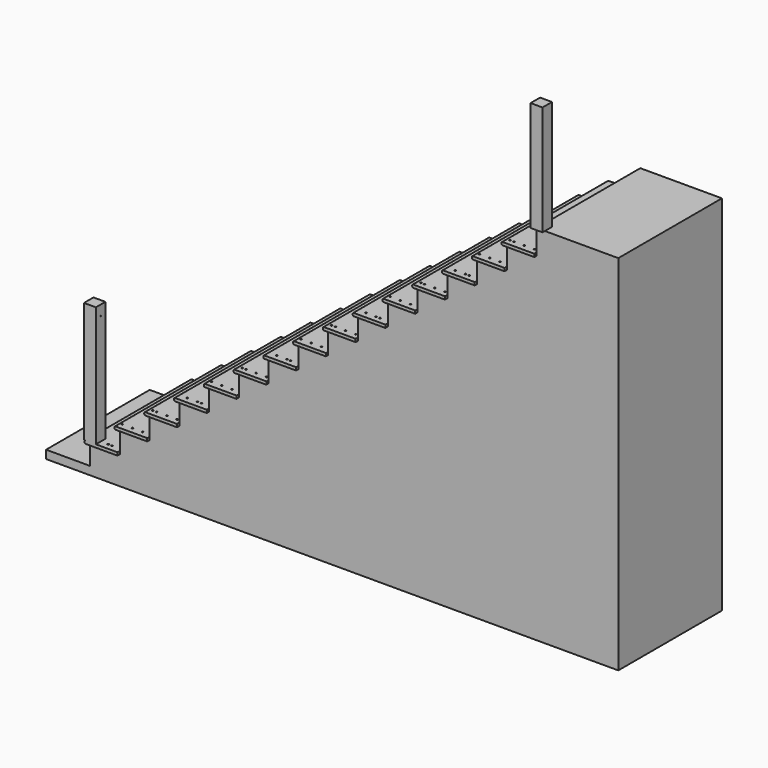
from build123d import *

# Parameters (mm, degrees)
F1_DEPTH  = 1104.9
F3_DEPTH  = 25.4
F4_R      = 6.35
F5_DEPTH  = 3096.200454
F6_W      = 12.7
F6_H      = 12.7
F7_DEPTH  = 19.05
F8_W      = 101.6
F8_H      = 101.6
F9_DEPTH  = 1028.7
F10_W     = 101.6
F10_H     = 101.6
F11_DEPTH = 938
F12_R     = 3
F13_DEPTH = 25


with BuildPart() as f1:
    # F0 (on Front) → F1 (new body)
    with BuildSketch(Plane.XZ):
        with BuildLine():
            ThreePointArc((0, 9.525), (2.789808, 2.789808), (9.525, 0))
            Line((9.525, 0), (25.4, 0))
            Line((25.4, 0), (279.4, 0))
            Line((279.4, 0), (279.4, 25.4))
            Line((279.4, 25.4), (9.525, 25.4))
            ThreePointArc((9.525, 25.4), (2.789808, 22.610192), (0, 15.875))
            Line((0, 15.875), (0, 9.525))
        make_face()
        Polygon((279.4, 0), (25.4, 0), (25.4, -170), (-349.500507, -170), (-349.500507, -240.399454), (4531.718731, -240.399454), (4531.718731, 2855.8), (3835.4, 2855.8), (3835.4, 2672.8), (3835.4, 2647.4), (3581.4, 2647.4), (3581.4, 2483.7), (3581.4, 2458.3), (3327.4, 2458.3), (3327.4, 2294.6), (3327.4, 2269.2), (3073.4, 2269.2), (3073.4, 2105.5), (3073.4, 2080.1), (2819.4, 2080.1), (2819.4, 1916.4), (2819.4, 1891), (2565.4, 1891), (2565.4, 1727.3), (2565.4, 1701.9), (2311.4, 1701.9), (2311.4, 1538.2), (2311.4, 1512.8), (2057.4, 1512.8), (2057.4, 1349.1), (2057.4, 1323.7), (1803.4, 1323.7), (1803.4, 1160), (1803.4, 1134.6), (1549.4, 1134.6), (1549.4, 970.9), (1549.4, 945.5), (1295.4, 945.5), (1295.4, 781.8), (1295.4, 756.4), (1041.4, 756.4), (1041.4, 592.7), (1041.4, 567.3), (787.4, 567.3), (787.4, 403.6), (787.4, 378.2), (533.4, 378.2), (533.4, 214.5), (533.4, 189.1), (279.4, 189.1), (279.4, 25.4), align=None)
        with BuildLine():
            Line((263.525, 189.1), (279.4, 189.1))
            Line((279.4, 189.1), (533.4, 189.1))
            Line((533.4, 189.1), (533.4, 214.5))
            Line((533.4, 214.5), (263.525, 214.5))
            ThreePointArc((263.525, 214.5), (256.789808, 211.710192), (254, 204.975))
            Line((254, 204.975), (254, 198.625))
            ThreePointArc((254, 198.625), (256.789808, 191.889808), (263.525, 189.1))
        make_face()
        with BuildLine():
            Line((517.525, 378.2), (533.4, 378.2))
            Line((533.4, 378.2), (787.4, 378.2))
            Line((787.4, 378.2), (787.4, 403.6))
            Line((787.4, 403.6), (517.525, 403.6))
            ThreePointArc((517.525, 403.6), (510.789808, 400.810192), (508, 394.075))
            Line((508, 394.075), (508, 387.725))
            ThreePointArc((508, 387.725), (510.789808, 380.989808), (517.525, 378.2))
        make_face()
        with BuildLine():
            Line((3835.4, 2647.4), (3835.4, 2672.8))
            Line((3835.4, 2672.8), (3565.525, 2672.8))
            ThreePointArc((3565.525, 2672.8), (3558.789808, 2670.010192), (3556, 2663.275))
            Line((3556, 2663.275), (3556, 2656.925))
            ThreePointArc((3556, 2656.925), (3558.789808, 2650.189808), (3565.525, 2647.4))
            Line((3565.525, 2647.4), (3581.4, 2647.4))
            Line((3581.4, 2647.4), (3835.4, 2647.4))
        make_face()
        with BuildLine():
            Line((771.525, 567.3), (787.4, 567.3))
            Line((787.4, 567.3), (1041.4, 567.3))
            Line((1041.4, 567.3), (1041.4, 592.7))
            Line((1041.4, 592.7), (771.525, 592.7))
            ThreePointArc((771.525, 592.7), (764.789808, 589.910192), (762, 583.175))
            Line((762, 583.175), (762, 576.825))
            ThreePointArc((762, 576.825), (764.789808, 570.089808), (771.525, 567.3))
        make_face()
        with BuildLine():
            Line((3581.4, 2458.3), (3581.4, 2483.7))
            Line((3581.4, 2483.7), (3311.525, 2483.7))
            ThreePointArc((3311.525, 2483.7), (3304.789808, 2480.910192), (3302, 2474.175))
            Line((3302, 2474.175), (3302, 2467.825))
            ThreePointArc((3302, 2467.825), (3304.789808, 2461.089808), (3311.525, 2458.3))
            Line((3311.525, 2458.3), (3327.4, 2458.3))
            Line((3327.4, 2458.3), (3581.4, 2458.3))
        make_face()
        with BuildLine():
            Line((1025.525, 756.4), (1041.4, 756.4))
            Line((1041.4, 756.4), (1295.4, 756.4))
            Line((1295.4, 756.4), (1295.4, 781.8))
            Line((1295.4, 781.8), (1025.525, 781.8))
            ThreePointArc((1025.525, 781.8), (1018.789808, 779.010192), (1016, 772.275))
            Line((1016, 772.275), (1016, 765.925))
            ThreePointArc((1016, 765.925), (1018.789808, 759.189808), (1025.525, 756.4))
        make_face()
        with BuildLine():
            Line((3327.4, 2269.2), (3327.4, 2294.6))
            Line((3327.4, 2294.6), (3057.525, 2294.6))
            ThreePointArc((3057.525, 2294.6), (3050.789808, 2291.810192), (3048, 2285.075))
            Line((3048, 2285.075), (3048, 2278.725))
            ThreePointArc((3048, 2278.725), (3050.789808, 2271.989808), (3057.525, 2269.2))
            Line((3057.525, 2269.2), (3073.4, 2269.2))
            Line((3073.4, 2269.2), (3327.4, 2269.2))
        make_face()
        with BuildLine():
            Line((1279.525, 945.5), (1295.4, 945.5))
            Line((1295.4, 945.5), (1549.4, 945.5))
            Line((1549.4, 945.5), (1549.4, 970.9))
            Line((1549.4, 970.9), (1279.525, 970.9))
            ThreePointArc((1279.525, 970.9), (1272.789808, 968.110192), (1270, 961.375))
            Line((1270, 961.375), (1270, 955.025))
            ThreePointArc((1270, 955.025), (1272.789808, 948.289808), (1279.525, 945.5))
        make_face()
        with BuildLine():
            Line((3073.4, 2080.1), (3073.4, 2105.5))
            Line((3073.4, 2105.5), (2803.525, 2105.5))
            ThreePointArc((2803.525, 2105.5), (2796.789808, 2102.710192), (2794, 2095.975))
            Line((2794, 2095.975), (2794, 2089.625))
            ThreePointArc((2794, 2089.625), (2796.789808, 2082.889808), (2803.525, 2080.1))
            Line((2803.525, 2080.1), (2819.4, 2080.1))
            Line((2819.4, 2080.1), (3073.4, 2080.1))
        make_face()
        with BuildLine():
            Line((1533.525, 1134.6), (1549.4, 1134.6))
            Line((1549.4, 1134.6), (1803.4, 1134.6))
            Line((1803.4, 1134.6), (1803.4, 1160))
            Line((1803.4, 1160), (1533.525, 1160))
            ThreePointArc((1533.525, 1160), (1526.789808, 1157.210192), (1524, 1150.475))
            Line((1524, 1150.475), (1524, 1144.125))
            ThreePointArc((1524, 1144.125), (1526.789808, 1137.389808), (1533.525, 1134.6))
        make_face()
        with BuildLine():
            Line((2819.4, 1891), (2819.4, 1916.4))
            Line((2819.4, 1916.4), (2549.525, 1916.4))
            ThreePointArc((2549.525, 1916.4), (2542.789808, 1913.610192), (2540, 1906.875))
            Line((2540, 1906.875), (2540, 1900.525))
            ThreePointArc((2540, 1900.525), (2542.789808, 1893.789808), (2549.525, 1891))
            Line((2549.525, 1891), (2565.4, 1891))
            Line((2565.4, 1891), (2819.4, 1891))
        make_face()
        with BuildLine():
            Line((1787.525, 1323.7), (1803.4, 1323.7))
            Line((1803.4, 1323.7), (2057.4, 1323.7))
            Line((2057.4, 1323.7), (2057.4, 1349.1))
            Line((2057.4, 1349.1), (1787.525, 1349.1))
            ThreePointArc((1787.525, 1349.1), (1780.789808, 1346.310192), (1778, 1339.575))
            Line((1778, 1339.575), (1778, 1333.225))
            ThreePointArc((1778, 1333.225), (1780.789808, 1326.489808), (1787.525, 1323.7))
        make_face()
        with BuildLine():
            Line((2565.4, 1701.9), (2565.4, 1727.3))
            Line((2565.4, 1727.3), (2295.525, 1727.3))
            ThreePointArc((2295.525, 1727.3), (2288.789808, 1724.510192), (2286, 1717.775))
            Line((2286, 1717.775), (2286, 1711.425))
            ThreePointArc((2286, 1711.425), (2288.789808, 1704.689808), (2295.525, 1701.9))
            Line((2295.525, 1701.9), (2311.4, 1701.9))
            Line((2311.4, 1701.9), (2565.4, 1701.9))
        make_face()
        with BuildLine():
            Line((2041.525, 1512.8), (2057.4, 1512.8))
            Line((2057.4, 1512.8), (2311.4, 1512.8))
            Line((2311.4, 1512.8), (2311.4, 1538.2))
            Line((2311.4, 1538.2), (2041.525, 1538.2))
            ThreePointArc((2041.525, 1538.2), (2034.789808, 1535.410192), (2032, 1528.675))
            Line((2032, 1528.675), (2032, 1522.325))
            ThreePointArc((2032, 1522.325), (2034.789808, 1515.589808), (2041.525, 1512.8))
        make_face()
    extrude(amount=F1_DEPTH)

    # F2 (on face) → F3 (join)
    with BuildSketch(Plane.XZ.offset(1104.9)):
        with BuildLine():
            ThreePointArc((0, 9.525), (2.789808, 2.789808), (9.525, 0))
            Line((9.525, 0), (25.4, 0))
            Line((25.4, 0), (279.4, 0))
            Line((279.4, 0), (279.4, 25.4))
            Line((279.4, 25.4), (9.525, 25.4))
            ThreePointArc((9.525, 25.4), (2.789808, 22.610192), (0, 15.875))
            Line((0, 15.875), (0, 9.525))
        make_face()
        with BuildLine():
            Line((533.4, 214.5), (263.525, 214.5))
            ThreePointArc((263.525, 214.5), (256.789808, 211.710192), (254, 204.975))
            Line((254, 204.975), (254, 198.625))
            ThreePointArc((254, 198.625), (256.789808, 191.889808), (263.525, 189.1))
            Line((263.525, 189.1), (279.4, 189.1))
            Line((279.4, 189.1), (533.4, 189.1))
            Line((533.4, 189.1), (533.4, 214.5))
        make_face()
        with BuildLine():
            Line((787.4, 403.6), (517.525, 403.6))
            ThreePointArc((517.525, 403.6), (510.789808, 400.810192), (508, 394.075))
            Line((508, 394.075), (508, 387.725))
            ThreePointArc((508, 387.725), (510.789808, 380.989808), (517.525, 378.2))
            Line((517.525, 378.2), (533.4, 378.2))
            Line((533.4, 378.2), (787.4, 378.2))
            Line((787.4, 378.2), (787.4, 403.6))
        make_face()
        with BuildLine():
            Line((1041.4, 592.7), (771.525, 592.7))
            ThreePointArc((771.525, 592.7), (764.789808, 589.910192), (762, 583.175))
            Line((762, 583.175), (762, 576.825))
            ThreePointArc((762, 576.825), (764.789808, 570.089808), (771.525, 567.3))
            Line((771.525, 567.3), (787.4, 567.3))
            Line((787.4, 567.3), (1041.4, 567.3))
            Line((1041.4, 567.3), (1041.4, 592.7))
        make_face()
        with BuildLine():
            Line((1295.4, 781.8), (1025.525, 781.8))
            ThreePointArc((1025.525, 781.8), (1018.789808, 779.010192), (1016, 772.275))
            Line((1016, 772.275), (1016, 765.925))
            ThreePointArc((1016, 765.925), (1018.789808, 759.189808), (1025.525, 756.4))
            Line((1025.525, 756.4), (1041.4, 756.4))
            Line((1041.4, 756.4), (1295.4, 756.4))
            Line((1295.4, 756.4), (1295.4, 781.8))
        make_face()
        with BuildLine():
            Line((1549.4, 970.9), (1279.525, 970.9))
            ThreePointArc((1279.525, 970.9), (1272.789808, 968.110192), (1270, 961.375))
            Line((1270, 961.375), (1270, 955.025))
            ThreePointArc((1270, 955.025), (1272.789808, 948.289808), (1279.525, 945.5))
            Line((1279.525, 945.5), (1295.4, 945.5))
            Line((1295.4, 945.5), (1549.4, 945.5))
            Line((1549.4, 945.5), (1549.4, 970.9))
        make_face()
        with BuildLine():
            Line((1803.4, 1160), (1533.525, 1160))
            ThreePointArc((1533.525, 1160), (1526.789808, 1157.210192), (1524, 1150.475))
            Line((1524, 1150.475), (1524, 1144.125))
            ThreePointArc((1524, 1144.125), (1526.789808, 1137.389808), (1533.525, 1134.6))
            Line((1533.525, 1134.6), (1549.4, 1134.6))
            Line((1549.4, 1134.6), (1803.4, 1134.6))
            Line((1803.4, 1134.6), (1803.4, 1160))
        make_face()
        with BuildLine():
            Line((2057.4, 1349.1), (1787.525, 1349.1))
            ThreePointArc((1787.525, 1349.1), (1780.789808, 1346.310192), (1778, 1339.575))
            Line((1778, 1339.575), (1778, 1333.225))
            ThreePointArc((1778, 1333.225), (1780.789808, 1326.489808), (1787.525, 1323.7))
            Line((1787.525, 1323.7), (1803.4, 1323.7))
            Line((1803.4, 1323.7), (2057.4, 1323.7))
            Line((2057.4, 1323.7), (2057.4, 1349.1))
        make_face()
        with BuildLine():
            Line((2311.4, 1538.2), (2041.525, 1538.2))
            ThreePointArc((2041.525, 1538.2), (2034.789808, 1535.410192), (2032, 1528.675))
            Line((2032, 1528.675), (2032, 1522.325))
            ThreePointArc((2032, 1522.325), (2034.789808, 1515.589808), (2041.525, 1512.8))
            Line((2041.525, 1512.8), (2057.4, 1512.8))
            Line((2057.4, 1512.8), (2311.4, 1512.8))
            Line((2311.4, 1512.8), (2311.4, 1538.2))
        make_face()
        with BuildLine():
            Line((2565.4, 1727.3), (2295.525, 1727.3))
            ThreePointArc((2295.525, 1727.3), (2288.789808, 1724.510192), (2286, 1717.775))
            Line((2286, 1717.775), (2286, 1711.425))
            ThreePointArc((2286, 1711.425), (2288.789808, 1704.689808), (2295.525, 1701.9))
            Line((2295.525, 1701.9), (2311.4, 1701.9))
            Line((2311.4, 1701.9), (2565.4, 1701.9))
            Line((2565.4, 1701.9), (2565.4, 1727.3))
        make_face()
        with BuildLine():
            Line((2819.4, 1916.4), (2549.525, 1916.4))
            ThreePointArc((2549.525, 1916.4), (2542.789808, 1913.610192), (2540, 1906.875))
            Line((2540, 1906.875), (2540, 1900.525))
            ThreePointArc((2540, 1900.525), (2542.789808, 1893.789808), (2549.525, 1891))
            Line((2549.525, 1891), (2565.4, 1891))
            Line((2565.4, 1891), (2819.4, 1891))
            Line((2819.4, 1891), (2819.4, 1916.4))
        make_face()
        with BuildLine():
            Line((3073.4, 2105.5), (2803.525, 2105.5))
            ThreePointArc((2803.525, 2105.5), (2796.789808, 2102.710192), (2794, 2095.975))
            Line((2794, 2095.975), (2794, 2089.625))
            ThreePointArc((2794, 2089.625), (2796.789808, 2082.889808), (2803.525, 2080.1))
            Line((2803.525, 2080.1), (2819.4, 2080.1))
            Line((2819.4, 2080.1), (3073.4, 2080.1))
            Line((3073.4, 2080.1), (3073.4, 2105.5))
        make_face()
        with BuildLine():
            Line((3327.4, 2294.6), (3057.525, 2294.6))
            ThreePointArc((3057.525, 2294.6), (3050.789808, 2291.810192), (3048, 2285.075))
            Line((3048, 2285.075), (3048, 2278.725))
            ThreePointArc((3048, 2278.725), (3050.789808, 2271.989808), (3057.525, 2269.2))
            Line((3057.525, 2269.2), (3073.4, 2269.2))
            Line((3073.4, 2269.2), (3327.4, 2269.2))
            Line((3327.4, 2269.2), (3327.4, 2294.6))
        make_face()
        with BuildLine():
            Line((3581.4, 2483.7), (3311.525, 2483.7))
            ThreePointArc((3311.525, 2483.7), (3304.789808, 2480.910192), (3302, 2474.175))
            Line((3302, 2474.175), (3302, 2467.825))
            ThreePointArc((3302, 2467.825), (3304.789808, 2461.089808), (3311.525, 2458.3))
            Line((3311.525, 2458.3), (3327.4, 2458.3))
            Line((3327.4, 2458.3), (3581.4, 2458.3))
            Line((3581.4, 2458.3), (3581.4, 2483.7))
        make_face()
        with BuildLine():
            Line((3835.4, 2672.8), (3565.525, 2672.8))
            ThreePointArc((3565.525, 2672.8), (3558.789808, 2670.010192), (3556, 2663.275))
            Line((3556, 2663.275), (3556, 2656.925))
            ThreePointArc((3556, 2656.925), (3558.789808, 2650.189808), (3565.525, 2647.4))
            Line((3565.525, 2647.4), (3581.4, 2647.4))
            Line((3581.4, 2647.4), (3835.4, 2647.4))
            Line((3835.4, 2647.4), (3835.4, 2672.8))
        make_face()
    extrude(amount=F3_DEPTH)

    # F4 (on face) → F5 (cut, through all)
    with BuildSketch(Plane(origin=(0, 0, -240.399454), x_dir=(1, 0, 0), z_dir=(0, 0, -1))):
        with Locations((279.781, 1079.5)):
            Circle(F4_R)
        with Locations((160.02, 1079.5)):
            Circle(F4_R)
        with Locations((192.6844, 1079.5)):
            Circle(F4_R)
        with Locations((453.9742, 1079.5)):
            Circle(F4_R)
        with Locations((366.8776, 1079.5)):
            Circle(F4_R)
        with Locations((660.781, 1079.5)):
            Circle(F4_R)
        with Locations((541.02, 1079.5)):
            Circle(F4_R)
        with Locations((573.6844, 1079.5)):
            Circle(F4_R)
        with Locations((834.9742, 1079.5)):
            Circle(F4_R)
        with Locations((747.8776, 1079.5)):
            Circle(F4_R)
        with Locations((954.6844, 1079.5)):
            Circle(F4_R)
        with Locations((1509.8776, 1079.5)):
            Circle(F4_R)
        with Locations((1041.781, 1079.5)):
            Circle(F4_R)
        with Locations((1215.9742, 1079.5)):
            Circle(F4_R)
        with Locations((1303.02, 1079.5)):
            Circle(F4_R)
        with Locations((922.02, 1079.5)):
            Circle(F4_R)
        with Locations((1422.781, 1079.5)):
            Circle(F4_R)
        with Locations((1335.6844, 1079.5)):
            Circle(F4_R)
        with Locations((1596.9742, 1079.5)):
            Circle(F4_R)
        with Locations((1128.8776, 1079.5)):
            Circle(F4_R)
        with Locations((1716.6844, 1079.5)):
            Circle(F4_R)
        with Locations((2271.8776, 1079.5)):
            Circle(F4_R)
        with Locations((1803.781, 1079.5)):
            Circle(F4_R)
        with Locations((1977.9742, 1079.5)):
            Circle(F4_R)
        with Locations((2065.02, 1079.5)):
            Circle(F4_R)
        with Locations((1684.02, 1079.5)):
            Circle(F4_R)
        with Locations((2184.781, 1079.5)):
            Circle(F4_R)
        with Locations((2097.6844, 1079.5)):
            Circle(F4_R)
        with Locations((2358.9742, 1079.5)):
            Circle(F4_R)
        with Locations((1890.8776, 1079.5)):
            Circle(F4_R)
        with Locations((2478.6844, 1079.5)):
            Circle(F4_R)
        with Locations((3033.8776, 1079.5)):
            Circle(F4_R)
        with Locations((2565.781, 1079.5)):
            Circle(F4_R)
        with Locations((2739.9742, 1079.5)):
            Circle(F4_R)
        with Locations((2827.02, 1079.5)):
            Circle(F4_R)
        with Locations((2446.02, 1079.5)):
            Circle(F4_R)
        with Locations((2946.781, 1079.5)):
            Circle(F4_R)
        with Locations((2859.6844, 1079.5)):
            Circle(F4_R)
        with Locations((3120.9742, 1079.5)):
            Circle(F4_R)
        with Locations((2652.8776, 1079.5)):
            Circle(F4_R)
        with Locations((3240.6844, 1079.5)):
            Circle(F4_R)
        with Locations((3795.8776, 1079.5)):
            Circle(F4_R)
        with Locations((3327.781, 1079.5)):
            Circle(F4_R)
        with Locations((3501.9742, 1079.5)):
            Circle(F4_R)
        with Locations((3589.02, 1079.5)):
            Circle(F4_R)
        with Locations((3208.02, 1079.5)):
            Circle(F4_R)
        with Locations((3708.781, 1079.5)):
            Circle(F4_R)
        with Locations((3621.6844, 1079.5)):
            Circle(F4_R)
        with Locations((3882.9742, 1079.5)):
            Circle(F4_R)
        with Locations((3414.8776, 1079.5)):
            Circle(F4_R)
    extrude(amount=-F5_DEPTH, mode=Mode.SUBTRACT)

    # F6 (on face) → F7 (cut)
    with BuildSketch(Plane.XY.offset(25.4)):
        with Locations((160.02, -1079.5)):
            Rectangle(F6_W, F6_H)
    extrude(amount=-F7_DEPTH, mode=Mode.SUBTRACT)

    # F8 (on face) → F9 (join)
    with BuildSketch(Plane.XY.offset(25.4)):
        with Locations((44.9, -1079.5)):
            Rectangle(F8_W, F8_H)
    extrude(amount=F9_DEPTH)

    # F10 (on face) → F11 (join)
    with BuildSketch(Plane.XY.offset(2855.8)):
        with Locations((3854.45, -1079.5)):
            Rectangle(F10_W, F10_H)
    extrude(amount=F11_DEPTH)

    # F12 (on face) → F13 (cut)
    with BuildSketch(Plane.YZ.offset(95.7)):
        with Locations((-1078.7, 968.4)):
            Circle(F12_R)
    extrude(amount=-F13_DEPTH, mode=Mode.SUBTRACT)


solid = f1.part
